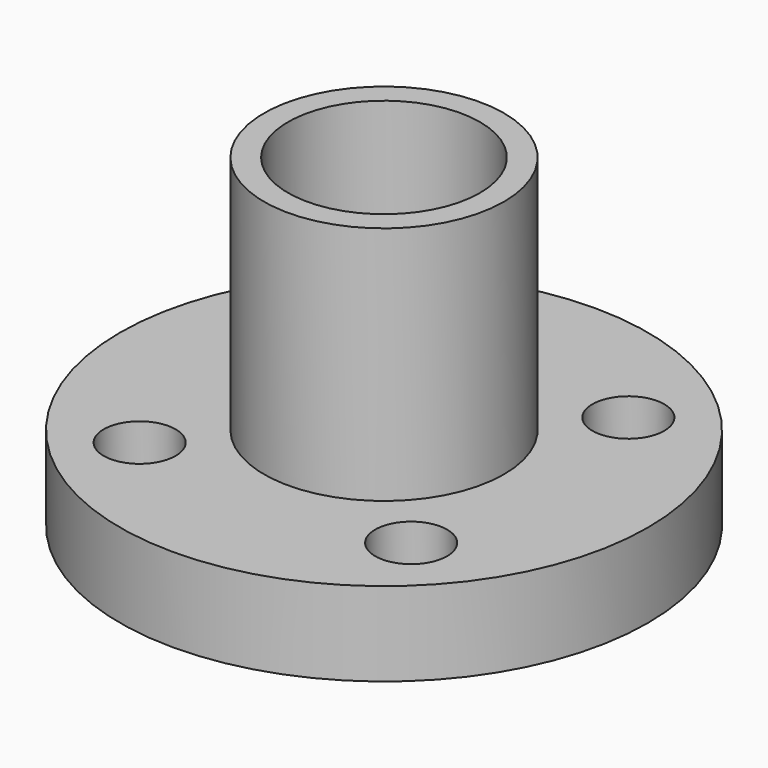
from build123d import *

# Parameters (mm, degrees)
SKETCH_R          = 11
PAD_DEPTH         = 3.5
SKETCH001_R       = 5
PAD001_DEPTH      = 10
PAD001_DEPTH_BACK = 4.5
SKETCH002_R       = 4
POCKET_DEPTH      = 14.501
SKETCH003_R       = 1.5
POCKET001_DEPTH   = 4.501


with BuildPart() as part:
    # Sketch → Pad (new body)
    with BuildSketch(Plane.XY):
        Circle(SKETCH_R)
    extrude(amount=PAD_DEPTH)

    # Sketch001 (on Face3 of Pad) → Pad001 (join, two sides)
    with BuildSketch(Plane.XY.offset(3.5)) as pad001_sk:
        Circle(SKETCH001_R)
    extrude(amount=PAD001_DEPTH)
    extrude(pad001_sk.sketch, amount=-PAD001_DEPTH_BACK)

    # Sketch002 (on Face7 of Pad001) → Pocket (cut, through all)
    with BuildSketch(Plane.XY.offset(13.5)):
        Circle(SKETCH002_R)
    extrude(amount=-POCKET_DEPTH, mode=Mode.SUBTRACT)

    # Sketch003 (on Face3 of Pocket) → Pocket001 (cut, through all)
    with BuildSketch(Plane.XY.offset(3.5)):
        with Locations((-5.656854, 5.656854)):
            Circle(SKETCH003_R)
        with Locations((5.656854, 5.656854)):
            Circle(SKETCH003_R)
        with Locations((5.656854, -5.656854)):
            Circle(SKETCH003_R)
        with Locations((-5.656854, -5.656854)):
            Circle(SKETCH003_R)
    extrude(amount=-POCKET001_DEPTH, mode=Mode.SUBTRACT)


solid = part.part
